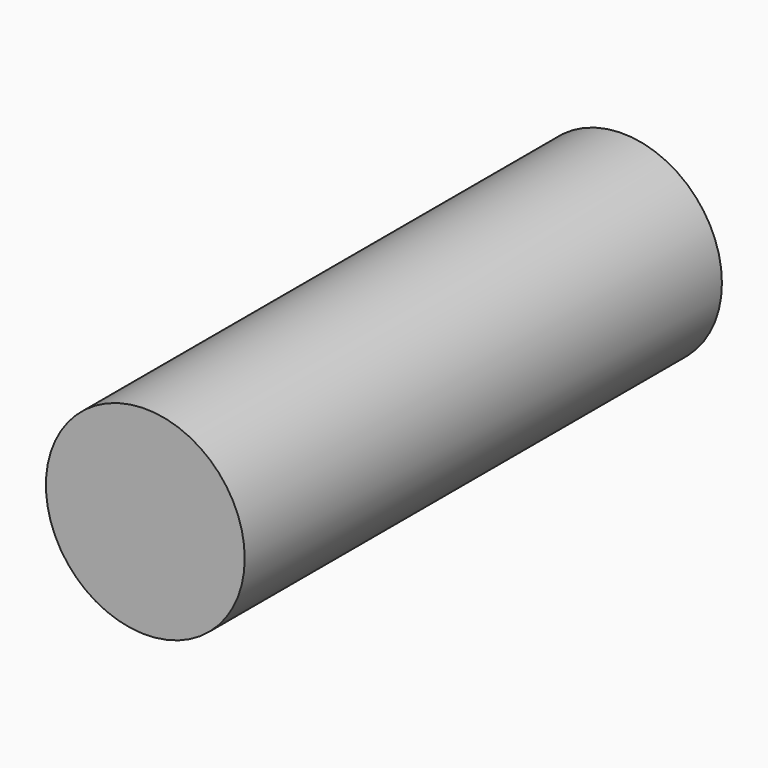
from build123d import *

# Parameters (mm, degrees)
F0_R = 20


with BuildPart() as f2:
    # F2: sweep along a path in F1
    with BuildLine(Plane.YZ) as f2_path:
        Line((0, 0), (120, 0))
    # F0 (on Front) → F2 (sweep)
    with BuildSketch(Plane.XZ):
        Circle(F0_R)
    sweep(path=f2_path.line)


solid = f2.part
